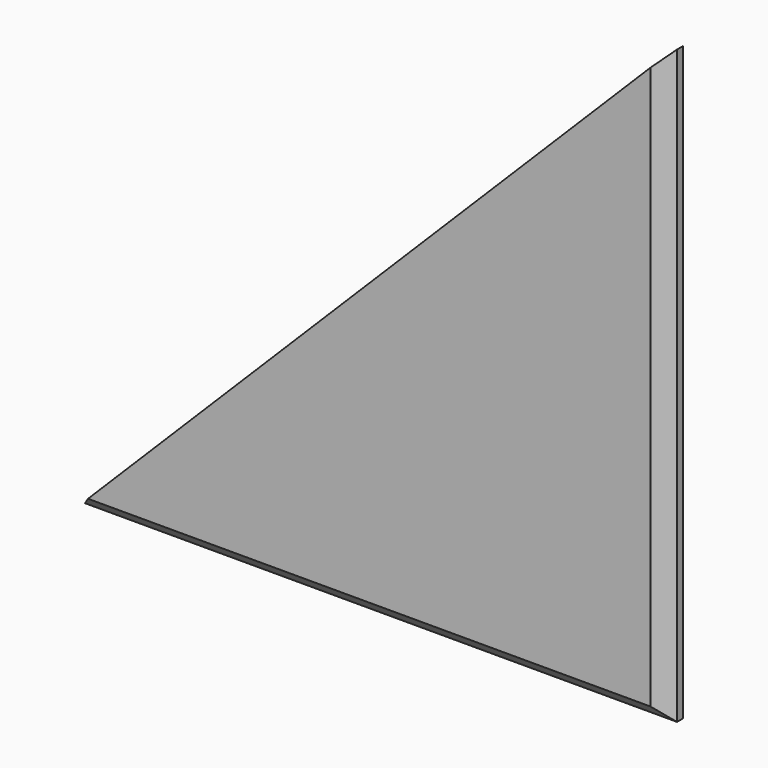
from build123d import *

# Parameters (mm, degrees)
F1_DEPTH = 6.35
F2_SIZE  = 2.54
F3_SIZE  = 2.54


with BuildPart() as f1:
    # F0 (on Front) → F1 (new body)
    with BuildSketch(Plane.XZ):
        Polygon((101.6, 101.6), (0, 0), (101.6, 0), align=None)
    extrude(amount=F1_DEPTH)

    # F2
    f2_edges = [f1.edges().sort_by_distance(p)[0] for p in [
        (101.6, -6.35, 50.8),
        (50.8, -6.35, 0),
    ]]
    chamfer(f2_edges, length=F2_SIZE)

    # F3
    f3_edges = [f1.edges().sort_by_distance(p)[0] for p in [
        (101.6, 0, 50.8),
        (50.8, 0, 0),
    ]]
    chamfer(f3_edges, length=F3_SIZE)


solid = f1.part
